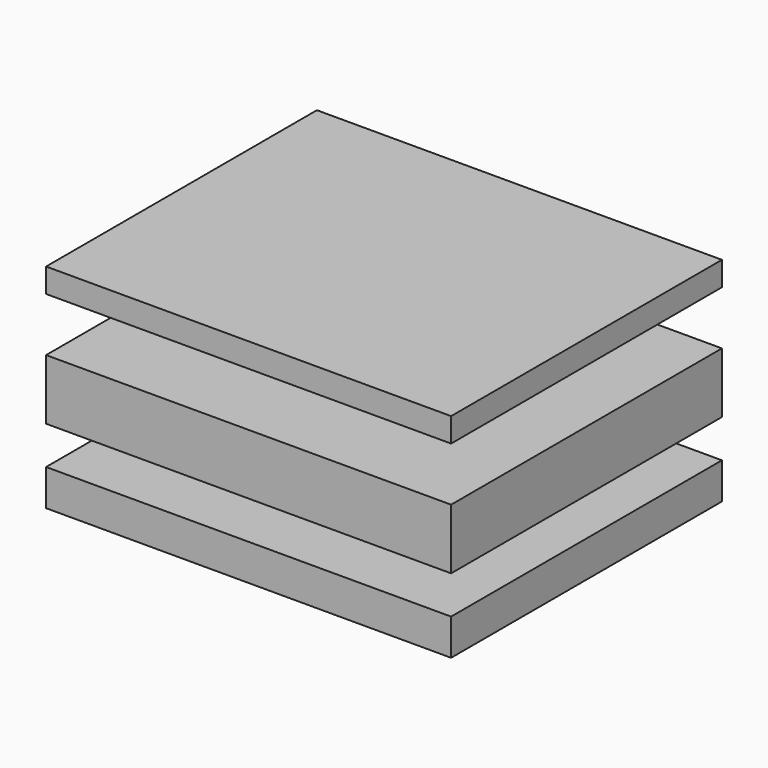
from build123d import *

# Parameters (mm, degrees)
F0_W     = 106.3625
F0_H     = 88.9
F1_DEPTH = 9.525
F3_W     = 106.3625
F3_H     = 88.9
F4_DEPTH = 15.875
F6_W     = 106.3625
F6_H     = 88.9
F7_DEPTH = 6.35


with BuildPart() as f1:
    # F0 (on Top) → F1 (new body)
    with BuildSketch(Plane.XY):
        with Locations((53.18125, 44.45)):
            Rectangle(F0_W, F0_H)
    extrude(amount=F1_DEPTH)


with BuildPart() as f4:
    # F3 (on offset) → F4 (new body)
    with BuildSketch(Plane.XY.offset(19.525)):
        with Locations((53.18125, 44.45)):
            Rectangle(F3_W, F3_H)
        Polygon((20, 22.0375), (20, 64.9), (32.7, 64.9), (32.7, 45.85), (43.8125, 45.85), (43.8125, 42.675), (32.7, 42.675), (32.7, 22.0375), align=None, mode=Mode.SUBTRACT)
        with BuildLine():
            ThreePointArc((70.8966249943, 50.0194092721), (75.6591249943, 54.7819092721), (80.4216249943, 50.0194092721))
            Line((80.4216249943, 50.0194092721), (85.1841249943, 50.0194092721))
            Line((85.1841249943, 50.0194092721), (85.1841249943, 30.9694092721))
            Line((85.1841249943, 30.9694092721), (66.1341249943, 30.9694092721))
            Line((66.1341249943, 30.9694092721), (66.1341249943, 50.0194092721))
            Line((66.1341249943, 50.0194092721), (70.8966249943, 50.0194092721))
        make_face(mode=Mode.SUBTRACT)
    extrude(amount=F4_DEPTH)


with BuildPart() as f7:
    # F6 (on offset) → F7 (new body)
    with BuildSketch(Plane.XY.offset(49.525)):
        with Locations((53.18125, 44.45)):
            Rectangle(F6_W, F6_H)
    extrude(amount=F7_DEPTH)


solid = Compound([f1.part, f4.part, f7.part])
